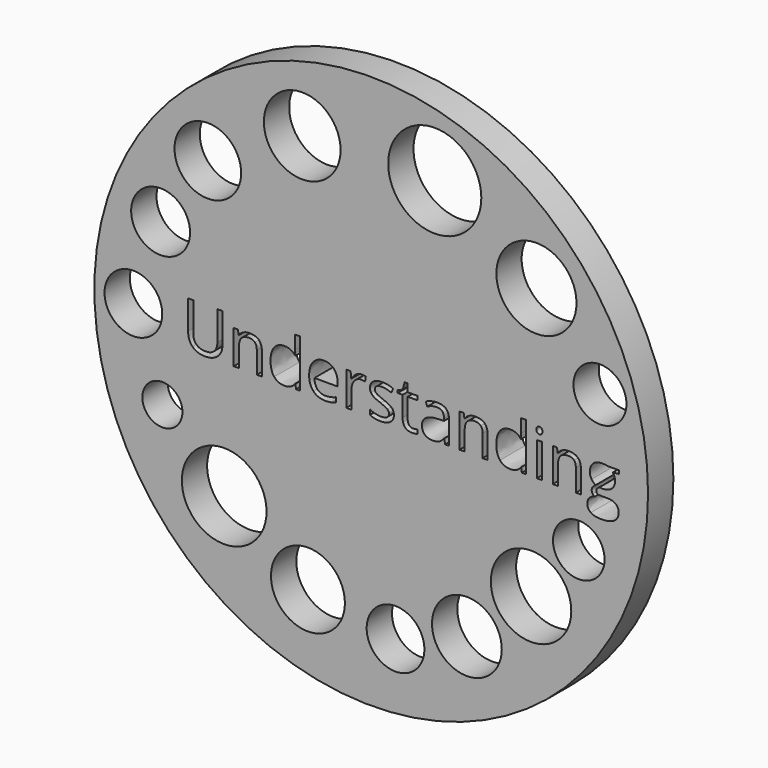
from build123d import *

# Parameters (mm, degrees)
F0_R     = 44.45
F0_R_2   = 6.7997913468
F0_R_3   = 5.9338996573
F0_R_4   = 3.2157078385
F0_R_5   = 4.6338650661
F0_R_6   = 5.6019223622
F0_R_7   = 6.457260599
F0_R_8   = 4.1440594345
F0_W     = 0.820723408
F0_H     = 5.416141951
F0_R_9   = 4.6346846352
F0_R_10  = 4.7280263535
F0_R_11  = 5.3508029487
F0_R_12  = 6.1571921969
F0_R_13  = 4.2529212837
F0_R_14  = 7.4757463924
F0_R_15  = 6.4324435264
F1_DEPTH = 5.08


with BuildPart() as f1:
    # F0 (on Front) → F1 (new body)
    with BuildSketch(Plane.XZ):
        Circle(F0_R)
        with Locations((-23.6045010388, -22.4910601974)):
            Circle(F0_R_2, mode=Mode.SUBTRACT)
        with Locations((-10.1574761793, -31.3203670084)):
            Circle(F0_R_3, mode=Mode.SUBTRACT)
        with Locations((-33.5291512311, -12.7971181646)):
            Circle(F0_R_4, mode=Mode.SUBTRACT)
        with BuildLine():
            Line((-24.7043760932, 3.5817697866), (-23.8646764214, 3.5817697866))
            Line((-23.8646764214, 3.5817697866), (-23.8646764214, -1.0927165221))
            add(Edge.make_bspline(
                [(-23.8646764214, -1.0927165221), (-23.8646764214, -2.3293363777), (-24.6110761297, -3.0362022032)],
                knots=[0, 0, 0, 1, 1, 1], degree=2))
            add(Edge.make_bspline(
                [(-24.6110761297, -3.0362022032), (-25.357475838, -3.7430680286), (-26.6620939721, -3.7430680286)],
                knots=[0, 0, 0, 1, 1, 1], degree=2))
            add(Edge.make_bspline(
                [(-26.6620939721, -3.7430680286), (-27.9667121063, -3.7430680286), (-28.6806940307, -3.0306674596)],
                knots=[0, 0, 0, 1, 1, 1], degree=2))
            add(Edge.make_bspline(
                [(-28.6806940307, -3.0306674596), (-29.394675955, -2.3182668905), (-29.394675955, -1.0737402583)],
                knots=[0, 0, 0, 1, 1, 1], degree=2))
            Line((-29.394675955, -1.0737402583), (-29.394675955, 3.5817697866))
            Line((-29.394675955, 3.5817697866), (-28.5533949279, 3.5817697866))
            Line((-28.5533949279, 3.5817697866), (-28.5533949279, -1.1322504049))
            add(Edge.make_bspline(
                [(-28.5533949279, -1.1322504049), (-28.5533949279, -2.0367856446), (-28.0592213922, -2.5214710484)],
                knots=[0, 0, 0, 1, 1, 1], degree=2))
            add(Edge.make_bspline(
                [(-28.0592213922, -2.5214710484), (-27.5650478565, -3.0061564522), (-26.6067465361, -3.0061564522)],
                knots=[0, 0, 0, 1, 1, 1], degree=2))
            add(Edge.make_bspline(
                [(-26.6067465361, -3.0061564522), (-25.6927231646, -3.0061564522), (-25.1985496289, -2.5190990154)],
                knots=[0, 0, 0, 1, 1, 1], degree=2))
            add(Edge.make_bspline(
                [(-25.1985496289, -2.5190990154), (-24.7043760932, -2.0320415787), (-24.7043760932, -1.122762273)],
                knots=[0, 0, 0, 1, 1, 1], degree=2))
            Line((-24.7043760932, -1.122762273), (-24.7043760932, 3.5817697866))
        make_face(mode=Mode.SUBTRACT)
        with BuildLine():
            Line((-17.5487432967, -3.6434426438), (-18.3694667047, -3.6434426438))
            Line((-18.3694667047, -3.6434426438), (-18.3694667047, -0.1391592676))
            add(Edge.make_bspline(
                [(-18.3694667047, -0.1391592676), (-18.3694667047, 0.5218472537), (-18.6707148921, 0.848397126)],
                knots=[0, 0, 0, 1, 1, 1], degree=2))
            add(Edge.make_bspline(
                [(-18.6707148921, 0.848397126), (-18.9719630794, 1.1749469984), (-19.6155746923, 1.1749469984)],
                knots=[0, 0, 0, 1, 1, 1], degree=2))
            add(Edge.make_bspline(
                [(-19.6155746923, 1.1749469984), (-20.464762496, 1.1749469984), (-20.8601013245, 0.7155632797)],
                knots=[0, 0, 0, 1, 1, 1], degree=2))
            add(Edge.make_bspline(
                [(-20.8601013245, 0.7155632797), (-21.2554401531, 0.2561795609), (-21.2554401531, -0.8017471443)],
                knots=[0, 0, 0, 1, 1, 1], degree=2))
            Line((-21.2554401531, -0.8017471443), (-21.2554401531, -3.6434426438))
            Line((-21.2554401531, -3.6434426438), (-22.0761635611, -3.6434426438))
            Line((-22.0761635611, -3.6434426438), (-22.0761635611, 1.7726993072))
            Line((-22.0761635611, 1.7726993072), (-21.4088316185, 1.7726993072))
            Line((-21.4088316185, 1.7726993072), (-21.2759977721, 1.0310436648))
            Line((-21.2759977721, 1.0310436648), (-21.2364638893, 1.0310436648))
            add(Edge.make_bspline(
                [(-21.2364638893, 1.0310436648), (-20.983447039, 1.4311265593), (-20.5288073862, 1.6517256256)],
                knots=[0, 0, 0, 1, 1, 1], degree=2))
            add(Edge.make_bspline(
                [(-20.5288073862, 1.6517256256), (-20.0741677334, 1.872324692), (-19.5159493075, 1.872324692)],
                knots=[0, 0, 0, 1, 1, 1], degree=2))
            add(Edge.make_bspline(
                [(-19.5159493075, 1.872324692), (-18.537090368, 1.872324692), (-18.0429168324, 1.4002901307)],
                knots=[0, 0, 0, 1, 1, 1], degree=2))
            add(Edge.make_bspline(
                [(-18.0429168324, 1.4002901307), (-17.5487432967, 0.9282555694), (-17.5487432967, -0.110694872)],
                knots=[0, 0, 0, 1, 1, 1], degree=2))
            Line((-17.5487432967, -0.110694872), (-17.5487432967, -3.6434426438))
        make_face(mode=Mode.SUBTRACT)
        with BuildLine():
            add(Edge.make_bspline(
                [(-6.4381408594, -3.6608375523), (-6.8255729114, -3.7430680286), (-7.3743032054, -3.7430680286)],
                knots=[0, 0, 0, 1, 1, 1], degree=2))
            add(Edge.make_bspline(
                [(-7.3743032054, -3.7430680286), (-8.5745518889, -3.7430680286), (-9.2695575494, -3.0109005181)],
                knots=[0, 0, 0, 1, 1, 1], degree=2))
            add(Edge.make_bspline(
                [(-9.2695575494, -3.0109005181), (-9.96456321, -2.2787330077), (-9.96456321, -0.9804402948)],
                knots=[0, 0, 0, 1, 1, 1], degree=2))
            add(Edge.make_bspline(
                [(-9.96456321, -0.9804402948), (-9.96456321, 0.3305032607), (-9.3193702418, 1.1014139763)],
                knots=[0, 0, 0, 1, 1, 1], degree=2))
            add(Edge.make_bspline(
                [(-9.3193702418, 1.1014139763), (-8.6741772737, 1.872324692), (-7.5862048175, 1.872324692)],
                knots=[0, 0, 0, 1, 1, 1], degree=2))
            add(Edge.make_bspline(
                [(-7.5862048175, 1.872324692), (-6.5693933505, 1.872324692), (-5.9763851077, 1.2026207164)],
                knots=[0, 0, 0, 1, 1, 1], degree=2))
            add(Edge.make_bspline(
                [(-5.9763851077, 1.2026207164), (-5.3833768649, 0.5329167409), (-5.3833768649, -0.5645438472)],
                knots=[0, 0, 0, 1, 1, 1], degree=2))
            Line((-5.3833768649, -0.5645438472), (-5.3833768649, -1.0832283902))
            Line((-5.3833768649, -1.0832283902), (-9.113794051, -1.0832283902))
            add(Edge.make_bspline(
                [(-9.113794051, -1.0832283902), (-9.088492366, -2.0367856446), (-8.6314806802, -2.5309591803)],
                knots=[0, 0, 0, 1, 1, 1], degree=2))
            add(Edge.make_bspline(
                [(-8.6314806802, -2.5309591803), (-8.1744689944, -3.025132716), (-7.3442574545, -3.025132716)],
                knots=[0, 0, 0, 1, 1, 1], degree=2))
            add(Edge.make_bspline(
                [(-7.3442574545, -3.025132716), (-6.4697679657, -3.025132716), (-5.6158360961, -2.6598396384)],
                knots=[0, 0, 0, 1, 1, 1], degree=2))
            Line((-5.6158360961, -2.6598396384), (-5.6158360961, -3.3920071489))
            add(Edge.make_bspline(
                [(-5.6158360961, -3.3920071489), (-6.0507088075, -3.5786070759), (-6.4381408594, -3.6608375523)],
                knots=[0, 0, 0, 1, 1, 1], degree=2))
        make_face(mode=Mode.SUBTRACT)
        with BuildLine():
            add(Edge.make_bspline(
                [(-2.4468000465, 1.5853087024), (-2.021415467, 1.872324692), (-1.5122190559, 1.872324692)],
                knots=[0, 0, 0, 1, 1, 1], degree=2))
            add(Edge.make_bspline(
                [(-1.5122190559, 1.872324692), (-1.1516700442, 1.872324692), (-0.8654447324, 1.81223319)],
                knots=[0, 0, 0, 1, 1, 1], degree=2))
            Line((-0.8654447324, 1.81223319), (-0.979302315, 1.0516012839))
            add(Edge.make_bspline(
                [(-0.979302315, 1.0516012839), (-1.3145496416, 1.1259249837), (-1.5723105578, 1.1259249837)],
                knots=[0, 0, 0, 1, 1, 1], degree=2))
            add(Edge.make_bspline(
                [(-1.5723105578, 1.1259249837), (-2.2301543685, 1.1259249837), (-2.6966541862, 0.5922175651)],
                knots=[0, 0, 0, 1, 1, 1], degree=2))
            add(Edge.make_bspline(
                [(-2.6966541862, 0.5922175651), (-3.1631540038, 0.0585101466), (-3.1631540038, -0.7369115764)],
                knots=[0, 0, 0, 1, 1, 1], degree=2))
            Line((-3.1631540038, -0.7369115764), (-3.1631540038, -3.6434426438))
            Line((-3.1631540038, -3.6434426438), (-3.9838774119, -3.6434426438))
            Line((-3.9838774119, -3.6434426438), (-3.9838774119, 1.7726993072))
            Line((-3.9838774119, 1.7726993072), (-3.3070573374, 1.7726993072))
            Line((-3.3070573374, 1.7726993072), (-3.2121760186, 0.770120038))
            Line((-3.2121760186, 0.770120038), (-3.1726421357, 0.770120038))
            add(Edge.make_bspline(
                [(-3.1726421357, 0.770120038), (-2.872184626, 1.2982927129), (-2.4468000465, 1.5853087024)],
                knots=[0, 0, 0, 1, 1, 1], degree=2))
        make_face(mode=Mode.SUBTRACT)
        with Locations((3.905327525, -33.7142348289)):
            Circle(F0_R_5, mode=Mode.SUBTRACT)
        with Locations((15.3587320819, -29.6605415642)):
            Circle(F0_R_6, mode=Mode.SUBTRACT)
        with BuildLine():
            add(Edge.make_bspline(
                [(3.3030078757, -1.2714096726), (3.641417913, -1.6272146183), (3.641417913, -2.1664567804)],
                knots=[0, 0, 0, 1, 1, 1], degree=2))
            add(Edge.make_bspline(
                [(3.641417913, -2.1664567804), (3.641417913, -2.9223446206), (3.0784554211, -3.3327063246)],
                knots=[0, 0, 0, 1, 1, 1], degree=2))
            add(Edge.make_bspline(
                [(3.0784554211, -3.3327063246), (2.5154929293, -3.7430680286), (1.497100107, -3.7430680286)],
                knots=[0, 0, 0, 1, 1, 1], degree=2))
            add(Edge.make_bspline(
                [(1.497100107, -3.7430680286), (0.420197138, -3.7430680286), (-0.1822992367, -3.4014952807)],
                knots=[0, 0, 0, 1, 1, 1], degree=2))
            Line((-0.1822992367, -3.4014952807), (-0.1822992367, -2.6408633746))
            add(Edge.make_bspline(
                [(-0.1822992367, -2.6408633746), (0.2082955259, -2.8385327889), (0.6550284022, -2.9515996939)],
                knots=[0, 0, 0, 1, 1, 1], degree=2))
            add(Edge.make_bspline(
                [(0.6550284022, -2.9515996939), (1.1017612784, -3.0646665988), (1.5176577261, -3.0646665988)],
                knots=[0, 0, 0, 1, 1, 1], degree=2))
            add(Edge.make_bspline(
                [(1.5176577261, -3.0646665988), (2.1596879836, -3.0646665988), (2.5052141197, -2.8598810856)],
                knots=[0, 0, 0, 1, 1, 1], degree=2))
            add(Edge.make_bspline(
                [(2.5052141197, -2.8598810856), (2.8507402559, -2.6550955725), (2.8507402559, -2.2344550589)],
                knots=[0, 0, 0, 1, 1, 1], degree=2))
            add(Edge.make_bspline(
                [(2.8507402559, -2.2344550589), (2.8507402559, -1.9181839961), (2.5771657865, -1.6936315415)],
                knots=[0, 0, 0, 1, 1, 1], degree=2))
            add(Edge.make_bspline(
                [(2.5771657865, -1.6936315415), (2.3035913172, -1.4690790868), (1.5065882389, -1.1622961559)],
                knots=[0, 0, 0, 1, 1, 1], degree=2))
            add(Edge.make_bspline(
                [(1.5065882389, -1.1622961559), (0.7507003987, -0.88081491), (0.4320573029, -0.6704946532)],
                knots=[0, 0, 0, 1, 1, 1], degree=2))
            add(Edge.make_bspline(
                [(0.4320573029, -0.6704946532), (0.1134142071, -0.4601743964), (-0.0423492914, -0.193716026)],
                knots=[0, 0, 0, 1, 1, 1], degree=2))
            add(Edge.make_bspline(
                [(-0.0423492914, -0.193716026), (-0.1981127898, 0.0727423445), (-0.1981127898, 0.442779488)],
                knots=[0, 0, 0, 1, 1, 1], degree=2))
            add(Edge.make_bspline(
                [(-0.1981127898, 0.442779488), (-0.1981127898, 1.1053673646), (0.3411293723, 1.4888460283)],
                knots=[0, 0, 0, 1, 1, 1], degree=2))
            add(Edge.make_bspline(
                [(0.3411293723, 1.4888460283), (0.8803715344, 1.872324692), (1.8181152357, 1.872324692)],
                knots=[0, 0, 0, 1, 1, 1], degree=2))
            add(Edge.make_bspline(
                [(1.8181152357, 1.872324692), (2.6926047245, 1.872324692), (3.5291416857, 1.5165197463)],
                knots=[0, 0, 0, 1, 1, 1], degree=2))
            Line((3.5291416857, 1.5165197463), (3.2365909525, 0.8491878037))
            add(Edge.make_bspline(
                [(3.2365909525, 0.8491878037), (2.4221929657, 1.1844351303), (1.7596050891, 1.1844351303)],
                knots=[0, 0, 0, 1, 1, 1], degree=2))
            add(Edge.make_bspline(
                [(1.7596050891, 1.1844351303), (1.1760849782, 1.1844351303), (0.8795808568, 1.0017885915)],
                knots=[0, 0, 0, 1, 1, 1], degree=2))
            add(Edge.make_bspline(
                [(0.8795808568, 1.0017885915), (0.5830767354, 0.8191420527), (0.5830767354, 0.498126924)],
                knots=[0, 0, 0, 1, 1, 1], degree=2))
            add(Edge.make_bspline(
                [(0.5830767354, 0.498126924), (0.5830767354, 0.2798998906), (0.694562285, 0.1272991028)],
                knots=[0, 0, 0, 1, 1, 1], degree=2))
            add(Edge.make_bspline(
                [(0.694562285, 0.1272991028), (0.8060478347, -0.025301685), (1.0527392637, -0.163670275)],
                knots=[0, 0, 0, 1, 1, 1], degree=2))
            add(Edge.make_bspline(
                [(1.0527392637, -0.163670275), (1.2994306927, -0.302038865), (2.0015524522, -0.5645438472)],
                knots=[0, 0, 0, 1, 1, 1], degree=2))
            add(Edge.make_bspline(
                [(2.0015524522, -0.5645438472), (2.9645978385, -0.9156047269), (3.3030078757, -1.2714096726)],
                knots=[0, 0, 0, 1, 1, 1], degree=2))
        make_face(mode=Mode.SUBTRACT)
        with BuildLine():
            add(Edge.make_bspline(
                [(6.087774584, -2.8029522943), (6.3202338151, -3.0646665988), (6.7250607756, -3.0646665988)],
                knots=[0, 0, 0, 1, 1, 1], degree=2))
            add(Edge.make_bspline(
                [(6.7250607756, -3.0646665988), (6.9432878089, -3.0646665988), (7.1457012891, -3.0330394925)],
                knots=[0, 0, 0, 1, 1, 1], degree=2))
            add(Edge.make_bspline(
                [(7.1457012891, -3.0330394925), (7.3481147693, -3.0014123863), (7.4667164179, -2.9666225693)],
                knots=[0, 0, 0, 1, 1, 1], degree=2))
            Line((7.4667164179, -2.9666225693), (7.4667164179, -3.5944206291))
            add(Edge.make_bspline(
                [(7.4667164179, -3.5944206291), (7.3338825715, -3.6576748416), (7.0745403, -3.7003714351)],
                knots=[0, 0, 0, 1, 1, 1], degree=2))
            add(Edge.make_bspline(
                [(7.0745403, -3.7003714351), (6.8151980285, -3.7430680286), (6.606459127, -3.7430680286)],
                knots=[0, 0, 0, 1, 1, 1], degree=2))
            add(Edge.make_bspline(
                [(6.606459127, -3.7430680286), (5.0361733, -3.7430680286), (5.0361733, -2.0873890147)],
                knots=[0, 0, 0, 1, 1, 1], degree=2))
            Line((5.0361733, -2.0873890147), (5.0361733, 1.1354131156))
            Line((5.0361733, 1.1354131156), (4.2597278408, 1.1354131156))
            Line((4.2597278408, 1.1354131156), (4.2597278408, 1.5307519441))
            Line((4.2597278408, 1.5307519441), (5.0361733, 1.872324692))
            Line((5.0361733, 1.872324692), (5.3809087585, 3.0282954266))
            Line((5.3809087585, 3.0282954266), (5.8553153528, 3.0282954266))
            Line((5.8553153528, 3.0282954266), (5.8553153528, 1.7726993072))
            Line((5.8553153528, 1.7726993072), (7.427182535, 1.7726993072))
            Line((7.427182535, 1.7726993072), (7.427182535, 1.1354131156))
            Line((7.427182535, 1.1354131156), (5.8553153528, 1.1354131156))
            Line((5.8553153528, 1.1354131156), (5.8553153528, -2.0525991978))
            add(Edge.make_bspline(
                [(5.8553153528, -2.0525991978), (5.8553153528, -2.5412379898), (6.087774584, -2.8029522943)],
                knots=[0, 0, 0, 1, 1, 1], degree=2))
        make_face(mode=Mode.SUBTRACT)
        with BuildLine():
            Line((12.4875195403, -3.6434426438), (11.8786977444, -3.6434426438))
            Line((11.8786977444, -3.6434426438), (11.715818147, -2.8717412505))
            Line((11.715818147, -2.8717412505), (11.6762842642, -2.8717412505))
            add(Edge.make_bspline(
                [(11.6762842642, -2.8717412505), (11.2714573037, -3.3809376617), (10.8690023763, -3.5620028451)],
                knots=[0, 0, 0, 1, 1, 1], degree=2))
            add(Edge.make_bspline(
                [(10.8690023763, -3.5620028451), (10.4665474488, -3.7430680286), (9.8624697188, -3.7430680286)],
                knots=[0, 0, 0, 1, 1, 1], degree=2))
            add(Edge.make_bspline(
                [(9.8624697188, -3.7430680286), (9.0575598639, -3.7430680286), (8.6005481781, -3.327171581)],
                knots=[0, 0, 0, 1, 1, 1], degree=2))
            add(Edge.make_bspline(
                [(8.6005481781, -3.327171581), (8.1435364923, -2.9112751334), (8.1435364923, -2.1458991613)],
                knots=[0, 0, 0, 1, 1, 1], degree=2))
            add(Edge.make_bspline(
                [(8.1435364923, -2.1458991613), (8.1435364923, -0.5060337005), (10.7670049585, -0.4269659348)],
                knots=[0, 0, 0, 1, 1, 1], degree=2))
            Line((10.7670049585, -0.4269659348), (11.685772396, -0.3969201839))
            Line((11.685772396, -0.3969201839), (11.685772396, -0.0600915019))
            add(Edge.make_bspline(
                [(11.685772396, -0.0600915019), (11.685772396, 0.5771946897), (11.4121979267, 0.88081491)],
                knots=[0, 0, 0, 1, 1, 1], degree=2))
            add(Edge.make_bspline(
                [(11.4121979267, 0.88081491), (11.1386234574, 1.1844351303), (10.5345457273, 1.1844351303)],
                knots=[0, 0, 0, 1, 1, 1], degree=2))
            add(Edge.make_bspline(
                [(10.5345457273, 1.1844351303), (9.8577256529, 1.1844351303), (9.0037937832, 0.770120038)],
                knots=[0, 0, 0, 1, 1, 1], degree=2))
            Line((9.0037937832, 0.770120038), (8.750776933, 1.3979180977))
            add(Edge.make_bspline(
                [(8.750776933, 1.3979180977), (9.1508598275, 1.6145637757), (9.6276384547, 1.7379094903)],
                knots=[0, 0, 0, 1, 1, 1], degree=2))
            add(Edge.make_bspline(
                [(9.6276384547, 1.7379094903), (10.1044170819, 1.8612552048), (10.5851490974, 1.8612552048)],
                knots=[0, 0, 0, 1, 1, 1], degree=2))
            add(Edge.make_bspline(
                [(10.5851490974, 1.8612552048), (11.5529385497, 1.8612552048), (12.020229045, 1.431917237)],
                knots=[0, 0, 0, 1, 1, 1], degree=2))
            add(Edge.make_bspline(
                [(12.020229045, 1.431917237), (12.4875195403, 1.0025792692), (12.4875195403, 0.0537660807)],
                knots=[0, 0, 0, 1, 1, 1], degree=2))
            Line((12.4875195403, 0.0537660807), (12.4875195403, -3.6434426438))
        make_face(mode=Mode.SUBTRACT)
        with BuildLine():
            Line((18.7038272803, -3.6434426438), (17.8831038722, -3.6434426438))
            Line((17.8831038722, -3.6434426438), (17.8831038722, -0.1391592676))
            add(Edge.make_bspline(
                [(17.8831038722, -0.1391592676), (17.8831038722, 0.5218472537), (17.5818556849, 0.848397126)],
                knots=[0, 0, 0, 1, 1, 1], degree=2))
            add(Edge.make_bspline(
                [(17.5818556849, 0.848397126), (17.2806074975, 1.1749469984), (16.6369958847, 1.1749469984)],
                knots=[0, 0, 0, 1, 1, 1], degree=2))
            add(Edge.make_bspline(
                [(16.6369958847, 1.1749469984), (15.787808081, 1.1749469984), (15.3924692524, 0.7155632797)],
                knots=[0, 0, 0, 1, 1, 1], degree=2))
            add(Edge.make_bspline(
                [(15.3924692524, 0.7155632797), (14.9971304239, 0.2561795609), (14.9971304239, -0.8017471443)],
                knots=[0, 0, 0, 1, 1, 1], degree=2))
            Line((14.9971304239, -0.8017471443), (14.9971304239, -3.6434426438))
            Line((14.9971304239, -3.6434426438), (14.1764070158, -3.6434426438))
            Line((14.1764070158, -3.6434426438), (14.1764070158, 1.7726993072))
            Line((14.1764070158, 1.7726993072), (14.8437389584, 1.7726993072))
            Line((14.8437389584, 1.7726993072), (14.9765728048, 1.0310436648))
            Line((14.9765728048, 1.0310436648), (15.0161066877, 1.0310436648))
            add(Edge.make_bspline(
                [(15.0161066877, 1.0310436648), (15.2691235379, 1.4311265593), (15.7237631907, 1.6517256256)],
                knots=[0, 0, 0, 1, 1, 1], degree=2))
            add(Edge.make_bspline(
                [(15.7237631907, 1.6517256256), (16.1784028436, 1.872324692), (16.7366212695, 1.872324692)],
                knots=[0, 0, 0, 1, 1, 1], degree=2))
            add(Edge.make_bspline(
                [(16.7366212695, 1.872324692), (17.7154802089, 1.872324692), (18.2096537446, 1.4002901307)],
                knots=[0, 0, 0, 1, 1, 1], degree=2))
            add(Edge.make_bspline(
                [(18.2096537446, 1.4002901307), (18.7038272803, 0.9282555694), (18.7038272803, -0.110694872)],
                knots=[0, 0, 0, 1, 1, 1], degree=2))
            Line((18.7038272803, -0.110694872), (18.7038272803, -3.6434426438))
        make_face(mode=Mode.SUBTRACT)
        with Locations((25.6620459259, -20.6278990954)):
            Circle(F0_R_7, mode=Mode.SUBTRACT)
        with Locations((33.3265885711, -11.5853315219)):
            Circle(F0_R_8, mode=Mode.SUBTRACT)
        with Locations((27.000407936, -0.9353716683)):
            Rectangle(F0_W, F0_H, mode=Mode.SUBTRACT)
        with BuildLine():
            Line((33.67768075, -3.6434426438), (32.8569573419, -3.6434426438))
            Line((32.8569573419, -3.6434426438), (32.8569573419, -0.1391592676))
            add(Edge.make_bspline(
                [(32.8569573419, -0.1391592676), (32.8569573419, 0.5218472537), (32.5557091546, 0.848397126)],
                knots=[0, 0, 0, 1, 1, 1], degree=2))
            add(Edge.make_bspline(
                [(32.5557091546, 0.848397126), (32.2544609672, 1.1749469984), (31.6108493544, 1.1749469984)],
                knots=[0, 0, 0, 1, 1, 1], degree=2))
            add(Edge.make_bspline(
                [(31.6108493544, 1.1749469984), (30.7616615507, 1.1749469984), (30.3663227221, 0.7155632797)],
                knots=[0, 0, 0, 1, 1, 1], degree=2))
            add(Edge.make_bspline(
                [(30.3663227221, 0.7155632797), (29.9709838936, 0.2561795609), (29.9709838936, -0.8017471443)],
                knots=[0, 0, 0, 1, 1, 1], degree=2))
            Line((29.9709838936, -0.8017471443), (29.9709838936, -3.6434426438))
            Line((29.9709838936, -3.6434426438), (29.1502604855, -3.6434426438))
            Line((29.1502604855, -3.6434426438), (29.1502604855, 1.7726993072))
            Line((29.1502604855, 1.7726993072), (29.8175924281, 1.7726993072))
            Line((29.8175924281, 1.7726993072), (29.9504262745, 1.0310436648))
            Line((29.9504262745, 1.0310436648), (29.9899601574, 1.0310436648))
            add(Edge.make_bspline(
                [(29.9899601574, 1.0310436648), (30.2429770076, 1.4311265593), (30.6976166604, 1.6517256256)],
                knots=[0, 0, 0, 1, 1, 1], degree=2))
            add(Edge.make_bspline(
                [(30.6976166604, 1.6517256256), (31.1522563133, 1.872324692), (31.7104747392, 1.872324692)],
                knots=[0, 0, 0, 1, 1, 1], degree=2))
            add(Edge.make_bspline(
                [(31.7104747392, 1.872324692), (32.6893336786, 1.872324692), (33.1835072143, 1.4002901307)],
                knots=[0, 0, 0, 1, 1, 1], degree=2))
            add(Edge.make_bspline(
                [(33.1835072143, 1.4002901307), (33.67768075, 0.9282555694), (33.67768075, -0.110694872)],
                knots=[0, 0, 0, 1, 1, 1], degree=2))
            Line((33.67768075, -0.110694872), (33.67768075, -3.6434426438))
        make_face(mode=Mode.SUBTRACT)
        with BuildLine():
            Line((37.9220384131, 1.7726993072), (39.7943631051, 1.7726993072))
            Line((39.7943631051, 1.7726993072), (39.7943631051, 1.2540147641))
            Line((39.7943631051, 1.2540147641), (38.7917838359, 1.1354131156))
            add(Edge.make_bspline(
                [(38.7917838359, 1.1354131156), (38.9293617483, 0.9630453863), (39.0384752649, 0.6831454957)],
                knots=[0, 0, 0, 1, 1, 1], degree=2))
            add(Edge.make_bspline(
                [(39.0384752649, 0.6831454957), (39.1475887816, 0.4032456051), (39.1475887816, 0.0537660807)],
                knots=[0, 0, 0, 1, 1, 1], degree=2))
            add(Edge.make_bspline(
                [(39.1475887816, 0.0537660807), (39.1475887816, -0.7432369977), (38.6036025535, -1.2176435919)],
                knots=[0, 0, 0, 1, 1, 1], degree=2))
            add(Edge.make_bspline(
                [(38.6036025535, -1.2176435919), (38.0596163255, -1.6920501861), (37.110803137, -1.6920501861)],
                knots=[0, 0, 0, 1, 1, 1], degree=2))
            add(Edge.make_bspline(
                [(37.110803137, -1.6920501861), (36.8688557739, -1.6920501861), (36.6569541618, -1.6525163033)],
                knots=[0, 0, 0, 1, 1, 1], degree=2))
            add(Edge.make_bspline(
                [(36.6569541618, -1.6525163033), (36.1335255528, -1.9292534833), (36.1335255528, -2.3483126415)],
                knots=[0, 0, 0, 1, 1, 1], degree=2))
            add(Edge.make_bspline(
                [(36.1335255528, -2.3483126415), (36.1335255528, -2.5712837408), (36.3161720916, -2.6772345469)],
                knots=[0, 0, 0, 1, 1, 1], degree=2))
            add(Edge.make_bspline(
                [(36.3161720916, -2.6772345469), (36.4988186304, -2.7831853529), (36.9431794737, -2.7831853529)],
                knots=[0, 0, 0, 1, 1, 1], degree=2))
            Line((36.9431794737, -2.7831853529), (37.9014807941, -2.7831853529))
            add(Edge.make_bspline(
                [(37.9014807941, -2.7831853529), (38.782295704, -2.7831853529), (39.2535395877, -3.1540131741)],
                knots=[0, 0, 0, 1, 1, 1], degree=2))
            add(Edge.make_bspline(
                [(39.2535395877, -3.1540131741), (39.7247834713, -3.5248409952), (39.7247834713, -4.2317068207)],
                knots=[0, 0, 0, 1, 1, 1], degree=2))
            add(Edge.make_bspline(
                [(39.7247834713, -4.2317068207), (39.7247834713, -5.1314979944), (39.003685448, -5.6035325557)],
                knots=[0, 0, 0, 1, 1, 1], degree=2))
            add(Edge.make_bspline(
                [(39.003685448, -5.6035325557), (38.2825874248, -6.075567117), (36.8989015249, -6.075567117)],
                knots=[0, 0, 0, 1, 1, 1], degree=2))
            add(Edge.make_bspline(
                [(36.8989015249, -6.075567117), (35.8362307538, -6.075567117), (35.2606174194, -5.6802282884)],
                knots=[0, 0, 0, 1, 1, 1], degree=2))
            add(Edge.make_bspline(
                [(35.2606174194, -5.6802282884), (34.6850040851, -5.2848894599), (34.6850040851, -4.5622100813)],
                knots=[0, 0, 0, 1, 1, 1], degree=2))
            add(Edge.make_bspline(
                [(34.6850040851, -4.5622100813), (34.6850040851, -4.0688272233), (35.0012751479, -3.707487534)],
                knots=[0, 0, 0, 1, 1, 1], degree=2))
            add(Edge.make_bspline(
                [(35.0012751479, -3.707487534), (35.3175462107, -3.3461478447), (35.8899968345, -3.2180580643)],
                knots=[0, 0, 0, 1, 1, 1], degree=2))
            add(Edge.make_bspline(
                [(35.8899968345, -3.2180580643), (35.6828392883, -3.1247581008), (35.5420986653, -2.9270886865)],
                knots=[0, 0, 0, 1, 1, 1], degree=2))
            add(Edge.make_bspline(
                [(35.5420986653, -2.9270886865), (35.4013580424, -2.7294192722), (35.4013580424, -2.4669142901)],
                knots=[0, 0, 0, 1, 1, 1], degree=2))
            add(Edge.make_bspline(
                [(35.4013580424, -2.4669142901), (35.4013580424, -2.1712008463), (35.5594935738, -1.948229747)],
                knots=[0, 0, 0, 1, 1, 1], degree=2))
            add(Edge.make_bspline(
                [(35.5594935738, -1.948229747), (35.7176291052, -1.7252586477), (36.0592018531, -1.5181011016)],
                knots=[0, 0, 0, 1, 1, 1], degree=2))
            add(Edge.make_bspline(
                [(36.0592018531, -1.5181011016), (35.6385613395, -1.3457333723), (35.374475002, -0.9306276024)],
                knots=[0, 0, 0, 1, 1, 1], degree=2))
            add(Edge.make_bspline(
                [(35.374475002, -0.9306276024), (35.1103886646, -0.5155218324), (35.1103886646, 0.0189762638)],
                knots=[0, 0, 0, 1, 1, 1], degree=2))
            add(Edge.make_bspline(
                [(35.1103886646, 0.0189762638), (35.1103886646, 0.9076979503), (35.6440960831, 1.3900113211)],
                knots=[0, 0, 0, 1, 1, 1], degree=2))
            add(Edge.make_bspline(
                [(35.6440960831, 1.3900113211), (36.1778035016, 1.872324692), (37.1550810858, 1.872324692)],
                knots=[0, 0, 0, 1, 1, 1], degree=2))
            add(Edge.make_bspline(
                [(37.1550810858, 1.872324692), (37.5804656653, 1.872324692), (37.9220384131, 1.7726993072)],
                knots=[0, 0, 0, 1, 1, 1], degree=2))
        make_face(mode=Mode.SUBTRACT)
        with Locations((-38.1832793355, 0)):
            Circle(F0_R_9, mode=Mode.SUBTRACT)
        with Locations((-33.8111482561, 12.9706561565)):
            Circle(F0_R_10, mode=Mode.SUBTRACT)
        with BuildLine():
            Line((-12.0693471331, -3.6434426438), (-12.1784606498, -2.9176005546))
            Line((-12.1784606498, -2.9176005546), (-12.2227385986, -2.9176005546))
            add(Edge.make_bspline(
                [(-12.2227385986, -2.9176005546), (-12.7904451564, -3.7430680286), (-13.9226955613, -3.7430680286)],
                knots=[0, 0, 0, 1, 1, 1], degree=2))
            add(Edge.make_bspline(
                [(-13.9226955613, -3.7430680286), (-14.9853663324, -3.7430680286), (-15.5760025423, -3.0164352617)],
                knots=[0, 0, 0, 1, 1, 1], degree=2))
            add(Edge.make_bspline(
                [(-15.5760025423, -3.0164352617), (-16.1666387521, -2.2898024949), (-16.1666387521, -0.9503945438)],
                knots=[0, 0, 0, 1, 1, 1], degree=2))
            add(Edge.make_bspline(
                [(-16.1666387521, -0.9503945438), (-16.1666387521, 0.3890134073), (-15.5736305093, 1.1306690496)],
                knots=[0, 0, 0, 1, 1, 1], degree=2))
            add(Edge.make_bspline(
                [(-15.5736305093, 1.1306690496), (-14.9806222665, 1.872324692), (-13.9226955613, 1.872324692)],
                knots=[0, 0, 0, 1, 1, 1], degree=2))
            add(Edge.make_bspline(
                [(-13.9226955613, 1.872324692), (-12.8204909074, 1.872324692), (-12.2322267305, 1.0705775477)],
                knots=[0, 0, 0, 1, 1, 1], degree=2))
            Line((-12.2322267305, 1.0705775477), (-12.1673911626, 1.0705775477))
            Line((-12.1673911626, 1.0705775477), (-12.2021809795, 1.4611723103))
            Line((-12.2021809795, 1.4611723103), (-12.2227385986, 1.842278941))
            Line((-12.2227385986, 1.842278941), (-12.2227385986, 4.0466882489))
            Line((-12.2227385986, 4.0466882489), (-11.4020151906, 4.0466882489))
            Line((-11.4020151906, 4.0466882489), (-11.4020151906, -3.6434426438))
            Line((-11.4020151906, -3.6434426438), (-12.0693471331, -3.6434426438))
        make_face(mode=Mode.SUBTRACT)
        with Locations((-26.2327864766, 24.0467209369)):
            Circle(F0_R_11, mode=Mode.SUBTRACT)
        with Locations((-11.0760657117, 32.4995070696)):
            Circle(F0_R_12, mode=Mode.SUBTRACT)
        with BuildLine():
            Line((24.1832234438, -3.6434426438), (24.0741099271, -2.9176005546))
            Line((24.0741099271, -2.9176005546), (24.0298319783, -2.9176005546))
            add(Edge.make_bspline(
                [(24.0298319783, -2.9176005546), (23.4621254205, -3.7430680286), (22.3298750156, -3.7430680286)],
                knots=[0, 0, 0, 1, 1, 1], degree=2))
            add(Edge.make_bspline(
                [(22.3298750156, -3.7430680286), (21.2672042445, -3.7430680286), (20.6765680347, -3.0164352617)],
                knots=[0, 0, 0, 1, 1, 1], degree=2))
            add(Edge.make_bspline(
                [(20.6765680347, -3.0164352617), (20.0859318248, -2.2898024949), (20.0859318248, -0.9503945438)],
                knots=[0, 0, 0, 1, 1, 1], degree=2))
            add(Edge.make_bspline(
                [(20.0859318248, -0.9503945438), (20.0859318248, 0.3890134073), (20.6789400676, 1.1306690496)],
                knots=[0, 0, 0, 1, 1, 1], degree=2))
            add(Edge.make_bspline(
                [(20.6789400676, 1.1306690496), (21.2719483104, 1.872324692), (22.3298750156, 1.872324692)],
                knots=[0, 0, 0, 1, 1, 1], degree=2))
            add(Edge.make_bspline(
                [(22.3298750156, 1.872324692), (23.4320796696, 1.872324692), (24.0203438464, 1.0705775477)],
                knots=[0, 0, 0, 1, 1, 1], degree=2))
            Line((24.0203438464, 1.0705775477), (24.0851794143, 1.0705775477))
            Line((24.0851794143, 1.0705775477), (24.0503895974, 1.4611723103))
            Line((24.0503895974, 1.4611723103), (24.0298319783, 1.842278941))
            Line((24.0298319783, 1.842278941), (24.0298319783, 4.0466882489))
            Line((24.0298319783, 4.0466882489), (24.8505553864, 4.0466882489))
            Line((24.8505553864, 4.0466882489), (24.8505553864, -3.6434426438))
            Line((24.8505553864, -3.6434426438), (24.1832234438, -3.6434426438))
        make_face(mode=Mode.SUBTRACT)
        with BuildLine():
            add(Edge.make_bspline(
                [(26.6588351881, 2.8274633017), (26.5204665981, 2.9634598587), (26.5204665981, 3.2401970387)],
                knots=[0, 0, 0, 1, 1, 1], degree=2))
            add(Edge.make_bspline(
                [(26.5204665981, 3.2401970387), (26.5204665981, 3.5216782846), (26.6588351881, 3.6529307757)],
                knots=[0, 0, 0, 1, 1, 1], degree=2))
            add(Edge.make_bspline(
                [(26.6588351881, 3.6529307757), (26.7972037781, 3.7841832668), (27.0059426796, 3.7841832668)],
                knots=[0, 0, 0, 1, 1, 1], degree=2))
            add(Edge.make_bspline(
                [(27.0059426796, 3.7841832668), (27.2036120938, 3.7841832668), (27.3467247498, 3.6505587427)],
                knots=[0, 0, 0, 1, 1, 1], degree=2))
            add(Edge.make_bspline(
                [(27.3467247498, 3.6505587427), (27.4898374057, 3.5169342187), (27.4898374057, 3.2401970387)],
                knots=[0, 0, 0, 1, 1, 1], degree=2))
            add(Edge.make_bspline(
                [(27.4898374057, 3.2401970387), (27.4898374057, 2.9634598587), (27.3467247498, 2.8274633017)],
                knots=[0, 0, 0, 1, 1, 1], degree=2))
            add(Edge.make_bspline(
                [(27.3467247498, 2.8274633017), (27.2036120938, 2.6914667447), (27.0059426796, 2.6914667447)],
                knots=[0, 0, 0, 1, 1, 1], degree=2))
            add(Edge.make_bspline(
                [(27.0059426796, 2.6914667447), (26.7972037781, 2.6914667447), (26.6588351881, 2.8274633017)],
                knots=[0, 0, 0, 1, 1, 1], degree=2))
        make_face(mode=Mode.SUBTRACT)
        with Locations((36.7259047925, 11.5132788196)):
            Circle(F0_R_13, mode=Mode.SUBTRACT)
        with Locations((10.2016385645, 33.0824591219)):
            Circle(F0_R_14, mode=Mode.SUBTRACT)
        with Locations((26.5242606401, 23.172294721)):
            Circle(F0_R_15, mode=Mode.SUBTRACT)
    extrude(amount=F1_DEPTH)


solid = f1.part
